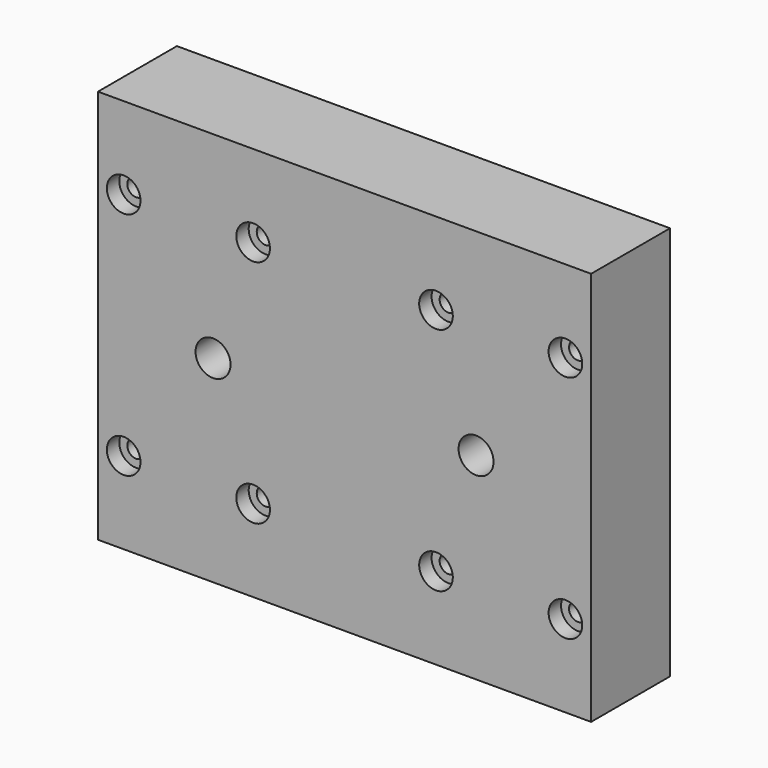
from build123d import *

# Parameters (mm, degrees)
F0_W           = 95.25
F0_H           = 76.2
F1_DEPTH       = 19.05
F3_D           = 3.4
F3_CBORE_D     = 6.5
F3_CBORE_DEPTH = 3
F5_D           = 6.7564


with BuildPart() as f1:
    # F0 (on Front) → F1 (new body)
    with BuildSketch(Plane.XZ):
        with Locations((47.625, 38.1)):
            Rectangle(F0_W, F0_H)
    extrude(amount=F1_DEPTH)

    # F3 (through all)
    with Locations(Plane.XZ.offset(19.05)):
        with Locations((4.9625, 60.325), (29.9625, 60.325), (65.2875, 60.325), (90.2875, 60.325), (4.9625, 15.875), (29.9625, 15.875), (65.2875, 15.875), (90.2875, 15.875)):
            CounterBoreHole(F3_D / 2, F3_CBORE_D / 2, F3_CBORE_DEPTH)

    # F5 (through all)
    with Locations(Plane(origin=(0, 0, 0), x_dir=(-1, 0, 0), z_dir=(0, 1, 0))):
        with Locations((-73.025, 38.1), (-22.225, 38.1)):
            Hole(F5_D / 2)


solid = f1.part
